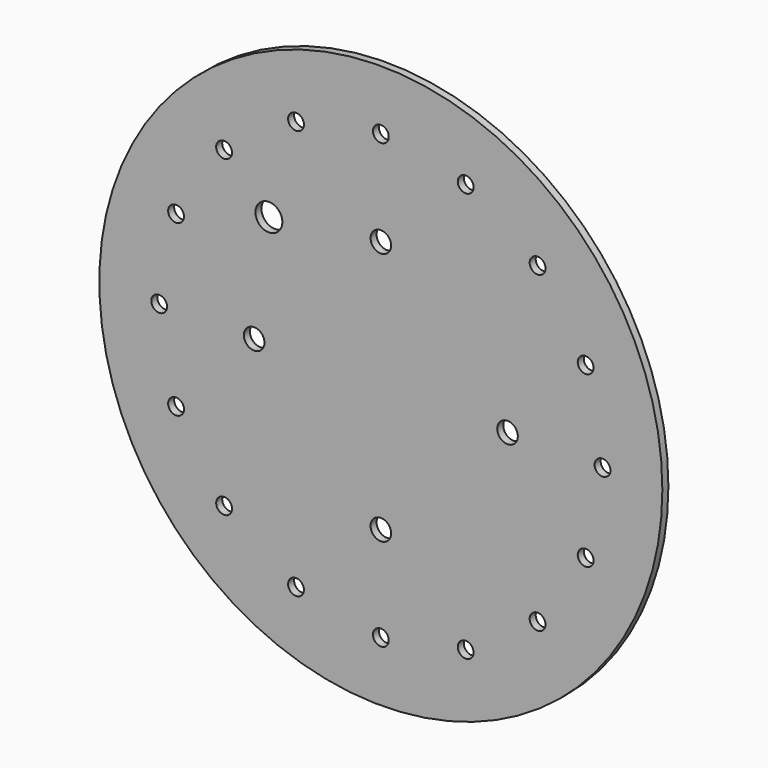
from build123d import *

# Parameters (mm, degrees)
F0_R     = 177.8
F1_DEPTH = 4.7625
F3_D     = 10
F5_D     = 13
F7_D     = 17


with BuildPart() as f1:
    # F0 (on Front) → F1 (new body)
    with BuildSketch(Plane.XZ):
        Circle(F0_R)
        Circle(F0_R)
    extrude(amount=F1_DEPTH)

    # F3 (through all)
    with Locations(Plane.XZ.offset(4.7625)):
        with Locations((0, 140), (53.575681, 129.343135), (98.994949, 98.994949), (129.343135, 53.575681), (140, 0), (129.343135, -53.575681), (98.994949, -98.994949), (53.575681, -129.343135), (0, -140), (-53.575681, -129.343135), (-98.994949, -98.994949), (-129.343135, -53.575681), (-140, 0), (-129.343135, 53.575681), (-98.994949, 98.994949), (-53.575681, 129.343135), (-53.575681, 129.343135)):
            Hole(F3_D / 2)

    # F5 (through all)
    with Locations(Plane.XZ.offset(4.7625)):
        with Locations((0, 80), (80, 0), (0, -80), (-80, 0)):
            Hole(F5_D / 2)

    # F7 (through all)
    with Locations(Plane.XZ.offset(4.7625)):
        with Locations((-70.710678, 70.710678)):
            Hole(F7_D / 2)


solid = f1.part
